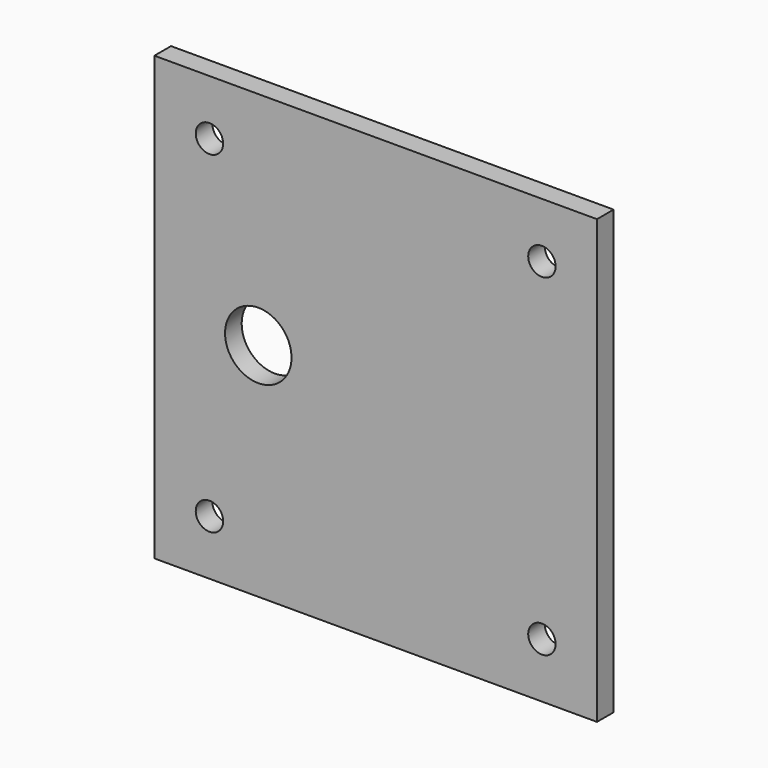
from build123d import *

# Parameters (mm, degrees)
F0_W     = 106.5
F0_H     = 106.5
F1_DEPTH = 5
F3_D     = 6.6
F5_D     = 16


with BuildPart() as f1:
    # F0 (on Front) → F1 (new body)
    with BuildSketch(Plane.XZ):
        with Locations((-53.25, 53.25)):
            Rectangle(F0_W, F0_H)
    extrude(amount=F1_DEPTH)

    # F3 (through all)
    with Locations(Plane.XZ.offset(5)):
        with Locations((-93.25, 93.25), (-93.25, 13.25), (-13.25, 13.25), (-13.25, 93.25)):
            Hole(F3_D / 2)

    # F5 (through all)
    with Locations(Plane.XZ.offset(5)):
        with Locations((-81.5, 53.25)):
            Hole(F5_D / 2)


solid = f1.part
